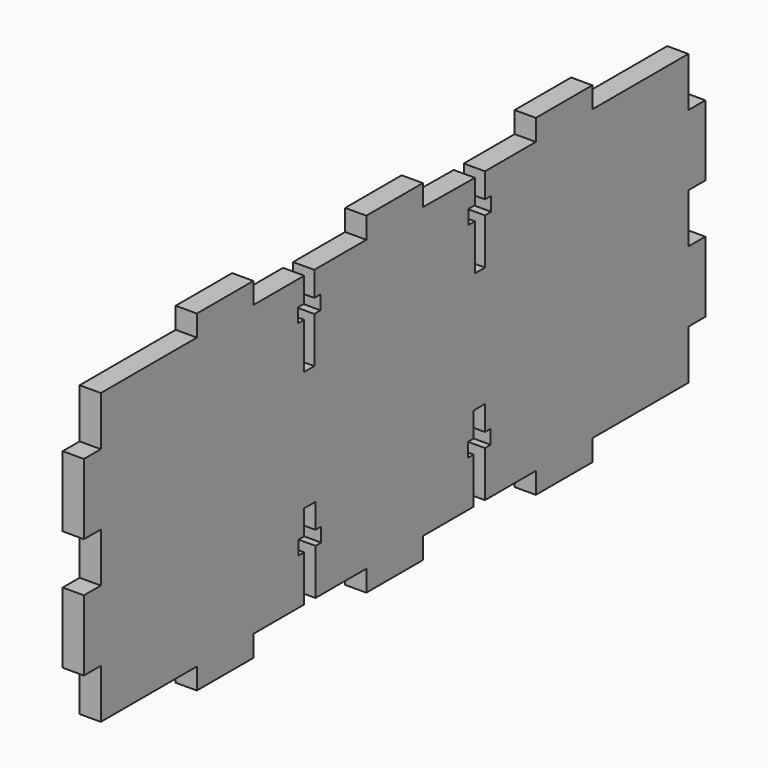
from build123d import *

# Parameters (mm, degrees)
F1_DEPTH = 3


with BuildPart() as f1:
    # F0 (on Right) → F1 (new body)
    with BuildSketch(Plane.YZ):
        Polygon((33.589474, -20.788582), (50.589474, -20.788582), (50.589474, -13.788582), (53.589474, -13.788582), (53.589474, -3.788582), (50.589474, -3.788582), (50.589474, 3.211418), (53.589474, 3.211418), (53.589474, 13.211418), (50.589474, 13.211418), (50.589474, 20.211418), (33.589474, 20.211418), (33.589474, 23.211418), (23.589474, 23.211418), (23.589474, 20.211418), (14.589474, 20.211418), (14.589474, 16.711418), (15.698332, 16.711418), (15.698332, 14.711418), (14.589474, 14.711418), (14.589474, 8.211418), (12.80719, 8.211418), (12.80719, 14.711418), (11.698332, 14.711418), (11.698332, 16.711418), (12.80719, 16.711418), (12.80719, 20.12675), (3.589474, 20.211418), (3.589474, 23.211418), (-6.410526, 23.211418), (-6.410526, 20.211418), (-15.628242, 20.211418), (-15.628242, 16.711418), (-14.519384, 16.711418), (-14.519384, 14.711418), (-15.628242, 14.711418), (-15.628242, 8.211418), (-17.410526, 8.211418), (-17.410526, 14.711418), (-18.519384, 14.711418), (-18.519384, 16.711418), (-17.410526, 16.711418), (-17.410526, 20.211418), (-26.410526, 20.211418), (-26.410526, 23.211418), (-36.410526, 23.211418), (-36.410526, 20.211418), (-53.410526, 20.211418), (-53.410526, 13.211418), (-56.410526, 13.211418), (-56.410526, 3.211418), (-53.410526, 3.211418), (-53.410526, -3.788582), (-56.410526, -3.788582), (-56.410526, -13.788582), (-53.410526, -13.788582), (-53.410526, -20.788582), (-36.410526, -20.788582), (-36.410526, -23.788582), (-26.410526, -23.788582), (-26.410526, -20.788582), (-17.410526, -20.788582), (-17.410526, -14.288582), (-18.410526, -14.288582), (-18.410526, -12.288582), (-17.410526, -12.288582), (-17.410526, -8.788582), (-15.410526, -8.788582), (-15.410526, -12.288582), (-14.410526, -12.288582), (-14.410526, -14.288582), (-15.410526, -14.288582), (-15.410526, -20.788582), (-6.410526, -20.788582), (-6.410526, -23.788582), (3.589474, -23.788582), (3.589474, -20.788582), (12.589474, -20.788582), (12.589474, -14.288582), (11.589474, -14.288582), (11.589474, -12.288582), (12.589474, -12.288582), (12.589474, -8.788582), (14.589474, -8.788582), (14.589474, -12.288582), (15.589474, -12.288582), (15.589474, -14.288582), (14.589474, -14.288582), (14.589474, -20.788582), (23.589474, -20.788582), (23.589474, -23.788582), (33.589474, -23.788582), align=None)
    extrude(amount=F1_DEPTH)


solid = f1.part
